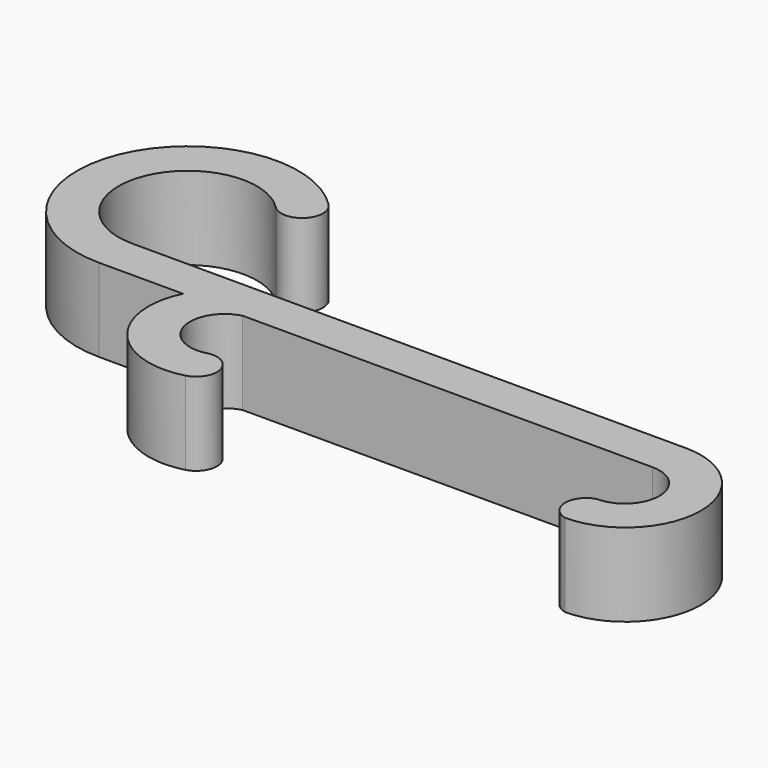
from build123d import *

# Parameters (mm, degrees)
F1_DEPTH = 6


with BuildPart() as f1:
    # F0 (on Top) → F1 (new body)
    with BuildSketch(Plane.XY):
        with BuildLine():
            ThreePointArc((40, -10.917138), (45.458569, -5.458569), (40, 0))
            Line((40, 0), (10.035747, 0))
            ThreePointArc((10.035747, 0), (7.687968, -1.023864), (6.058475, -3))
            Line((6.058475, -3), (10.352952, -3))
            Line((10.352952, -3), (40, -3))
            ThreePointArc((40, -3), (42.5, -5.5), (40, -8))
            ThreePointArc((40, -8), (38.85671, -9.458569), (40, -10.917138))
        make_face()
        with BuildLine():
            ThreePointArc((6.058475, -3), (7.687968, -1.023864), (10.035747, 0))
            Line((10.035747, 0), (0, 0))
            ThreePointArc((0, 0), (-4.619398, 6.913417), (3.535534, 8.535534))
            ThreePointArc((3.535534, 8.535534), (5.656854, 8.535534), (5.656854, 10.656854))
            ThreePointArc((5.656854, 10.656854), (-7.391036, 8.061467), (0, -3))
            Line((0, -3), (6.058475, -3))
        make_face()
        with BuildLine():
            Line((10.352952, -3), (6.058475, -3))
            ThreePointArc((6.058475, -3), (6.75473, -8.911625), (12.423505, -10.727407))
            ThreePointArc((12.423505, -10.727407), (13.484165, -8.890289), (11.647048, -7.829629))
            ThreePointArc((11.647048, -7.829629), (8.585185, -6.061862), (10.352952, -3))
        make_face()
    extrude(amount=F1_DEPTH)


solid = f1.part
